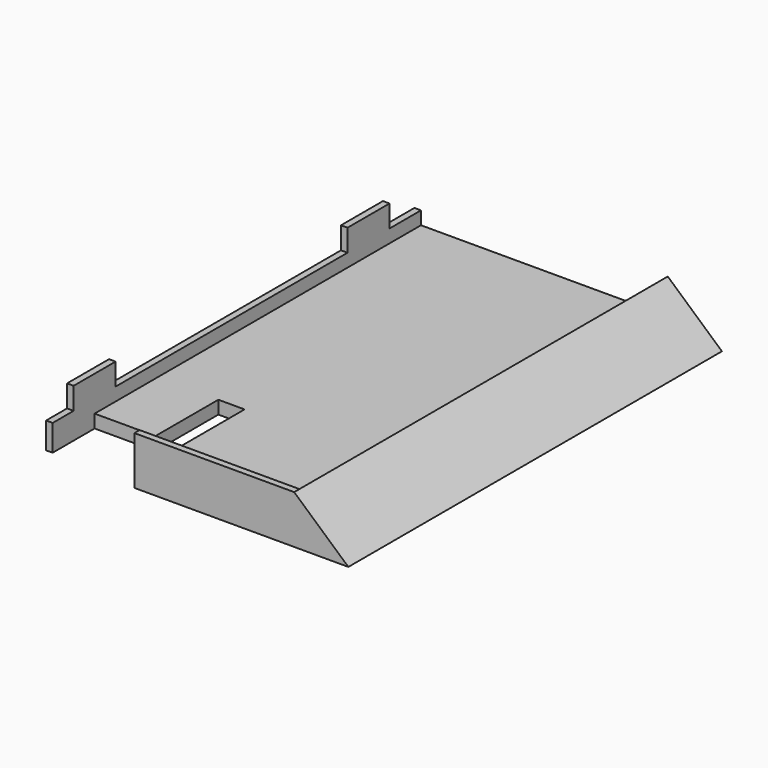
from build123d import *

# Parameters (mm, degrees)
F1_DEPTH = 3.175
F2_DEPTH = 6.35
F0_W     = 13.1055872
F0_H     = 111.4425
F3_DEPTH = 11.684
F5_DEPTH = 113.03
F6_W     = 1.5875
F6_H     = 12.7
F7_DEPTH = 5.334


with BuildPart() as f1:
    # F0 (on Top) → F1 (new body)
    with BuildSketch(Plane.XY):
        Polygon((29.8689268, -55.72125), (29.8689268, 55.72125), (-29.8689268, 55.72125), (-29.8689268, -43.02125), (-15.1623268, -43.02125), (-15.1623268, -23.97125), (-8.8123268, -23.97125), (-8.8123268, -43.02125), (-8.8123268, -55.72125), align=None)
    extrude(amount=F1_DEPTH)

    # F0 (on Top) → F2 (join)
    with BuildSketch(Plane.XY):
        Polygon((-29.8689268, -43.02125), (-29.8689268, 55.72125), (-31.4564268, 55.72125), (-31.4564268, -55.72125), (-29.8689268, -55.72125), align=None)
    extrude(amount=F2_DEPTH)

    # F0 (on Top) → F3 (join)
    with BuildSketch(Plane.XY):
        Polygon((42.974514, -55.72125), (29.8689268, -55.72125), (-8.8123268, -55.72125), (-8.8123268, -57.30875), (42.974514, -57.30875), align=None)
        with Locations((36.4217204, 0)):
            Rectangle(F0_W, F0_H)
    extrude(amount=F3_DEPTH)

    # F4 (on face) → F5 (cut, through all)
    with BuildSketch(Plane(origin=(0, 55.72125, 0), x_dir=(-1, 0, 0), z_dir=(0, 1, 0))):
        Polygon((-42.974514, 0), (-29.8689268, 11.684), (-42.974514, 11.684), align=None)
    extrude(amount=-F5_DEPTH, mode=Mode.SUBTRACT)

    # F6 (on face) → F7 (join, through all)
    with BuildSketch(Plane.XY.offset(6.35)):
        with Locations((-30.6626768, 39.84625)):
            Rectangle(F6_W, F6_H)
        with Locations((-30.6626768, -43.02125)):
            Rectangle(F6_W, F6_H)
    extrude(amount=F7_DEPTH)


solid = f1.part
